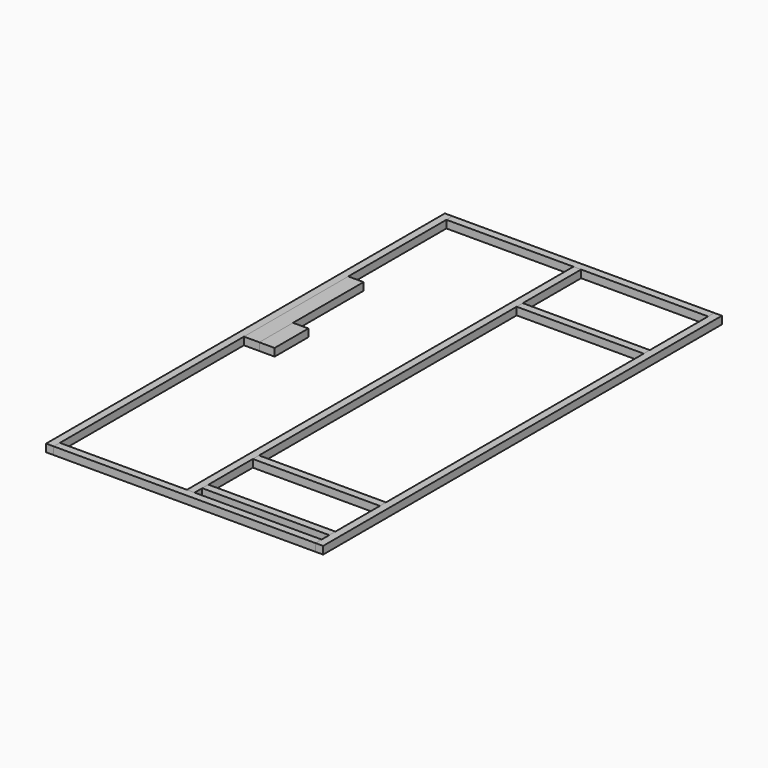
from build123d import *

# Parameters (mm, degrees)
F0_W      = 25.4
F0_H      = 1651
F1_DEPTH  = 25.4
F2_W      = 25.4
F2_H      = 25.4
F3_DEPTH  = 866.775
F4_W      = 25.4
F4_H      = 25.4
F5_DEPTH  = 1600.2
F6_W      = 25.4
F6_H      = 25.4
F7_DEPTH  = 420.6875
F8_W      = 50.8
F8_H      = 431.8
F9_DEPTH  = 25.4
F10_W     = 50.8
F10_H     = 139.7
F11_DEPTH = 25.4


with BuildPart() as f1:
    # F0 (on Top) → F1 (new body)
    with BuildSketch(Plane.XY):
        with Locations((12.7, -825.5)):
            Rectangle(F0_W, F0_H)
        with Locations((904.875, -825.5)):
            Rectangle(F0_W, F0_H)
    extrude(amount=F1_DEPTH)


with BuildPart() as f3:
    # F2 (on face) → F3 (new body, through all)
    with BuildSketch(Plane.YZ.offset(25.4)):
        with Locations((-12.7, 12.7)):
            Rectangle(F2_W, F2_H)
        with Locations((-1638.3, 12.7)):
            Rectangle(F2_W, F2_H)
    extrude(amount=F3_DEPTH)


with BuildPart() as f5:
    # F4 (on face) → F5 (new body, through all)
    with BuildSketch(Plane(origin=(0, -1625.6, 0), x_dir=(-1, 0, 0), z_dir=(0, 1, 0))):
        with Locations((-458.7875, 12.7)):
            Rectangle(F4_W, F4_H)
    extrude(amount=F5_DEPTH)


with BuildPart() as f7:
    # F6 (on face) → F7 (new body, through all)
    with BuildSketch(Plane(origin=(892.175, 0, 0), x_dir=(0, -1, 0), z_dir=(-1, 0, 0))):
        with Locations((279.4, 12.7)):
            Rectangle(F6_W, F6_H)
        with Locations((1581.15, 12.7)):
            Rectangle(F6_W, F6_H)
        with Locations((1371.6, 12.7)):
            Rectangle(F6_W, F6_H)
    extrude(amount=F7_DEPTH)


with BuildPart() as f9:
    # F8 (on face) → F9 (new body)
    with BuildSketch(Plane.XY.offset(25.4)):
        with Locations((50.8, -647.7)):
            Rectangle(F8_W, F8_H)
    extrude(amount=-F9_DEPTH)


with BuildPart() as f11:
    # F10 (on face) → F11 (new body)
    with BuildSketch(Plane.XY.offset(25.4)):
        with Locations((101.6, -793.75)):
            Rectangle(F10_W, F10_H)
    extrude(amount=-F11_DEPTH)


solid = Compound([f1.part, f3.part, f5.part, f7.part, f9.part, f11.part])
